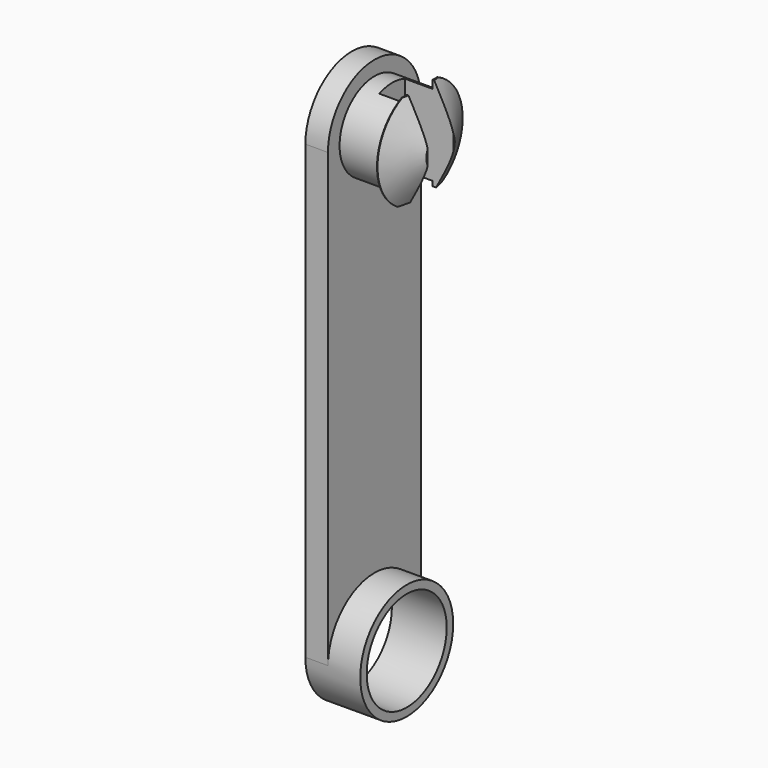
from build123d import *

# Parameters (mm, degrees)
F0_R      = 1.55
F1_DEPTH  = 0.7
F2_R      = 1.35
F3_DEPTH  = 1.4
F4_R      = 1.65
F5_DEPTH  = 0.65
F6_SIZE2  = 0.6350852961
F6_SIZE   = 1.1
F8_DEPTH  = 1.5
F9_R      = 1.8
F9_R_2    = 1.55
F10_DEPTH = 1


with BuildPart() as f1:
    # F0 (on Right) → F1 (new body)
    with BuildSketch(Plane.YZ):
        with BuildLine():
            Line((1.8, -7), (1.8, 7))
            ThreePointArc((1.8, 7), (0, 8.8), (-1.8, 7))
            Line((-1.8, 7), (-1.8, -7))
            ThreePointArc((-1.8, -7), (0, -8.8), (1.8, -7))
        make_face()
        with Locations((0, -7)):
            Circle(F0_R, mode=Mode.SUBTRACT)
    extrude(amount=F1_DEPTH)

    # F2 (on face) → F3 (join)
    with BuildSketch(Plane.YZ.offset(0.7)):
        with Locations((0, 7)):
            Circle(F2_R)
    extrude(amount=F3_DEPTH)

    # F4 (on face) → F5 (join)
    with BuildSketch(Plane.YZ.offset(2.1)):
        with Locations((0, 7)):
            Circle(F4_R)
    extrude(amount=F5_DEPTH)

    # F6
    f6_edges = [f1.edges().sort_by_distance(p)[0] for p in [
        (2.75, -1.65, 7),
    ]]
    f6_side = f1.faces().sort_by_distance((2.75, 0, 7))[0]
    chamfer(f6_edges, length=F6_SIZE, length2=F6_SIZE2, reference=f6_side)

    # F7 (on face) → F8 (cut)
    with BuildSketch(Plane.YZ.offset(2.75)):
        with BuildLine():
            Line((0.5, 8.8), (-0.5, 8.8))
            Line((-0.5, 8.8), (-1, 8.8))
            Line((-1, 8.8), (-1, 8.5))
            Line((-1, 8.5), (-0.5, 8.5))
            Line((-0.5, 8.5), (-0.5, 7.2291287847))
            ThreePointArc((-0.5, 7.2291287847), (0, 7.55), (0.5, 7.2291287847))
            Line((0.5, 7.2291287847), (0.5, 8.5))
            Line((0.5, 8.5), (1, 8.5))
            Line((1, 8.5), (1, 8.8))
            Line((1, 8.8), (0.5, 8.8))
        make_face()
        with BuildLine():
            ThreePointArc((0.5, 7.2291287847), (0, 7.55), (-0.5, 7.2291287847))
            Line((-0.5, 7.2291287847), (-0.5, 6.7708712153))
            ThreePointArc((-0.5, 6.7708712153), (0, 6.45), (0.5, 6.7708712153))
            Line((0.5, 6.7708712153), (0.5, 7.2291287847))
        make_face()
        with BuildLine():
            ThreePointArc((0.5, 6.7708712153), (0, 6.45), (-0.5, 6.7708712153))
            Line((-0.5, 6.7708712153), (-0.5, 5.6))
            Line((-0.5, 5.6), (-1, 5.6))
            Line((-1, 5.6), (-1, 5.3))
            Line((-1, 5.3), (-0.5, 5.3))
            Line((-0.5, 5.3), (0.5, 5.3))
            Line((0.5, 5.3), (1, 5.3))
            Line((1, 5.3), (1, 5.6))
            Line((1, 5.6), (0.5, 5.6))
            Line((0.5, 5.6), (0.5, 6.7708712153))
        make_face()
    extrude(amount=-F8_DEPTH, mode=Mode.SUBTRACT)

    # F9 (on face) → F10 (join)
    with BuildSketch(Plane.YZ.offset(0.7)):
        with Locations((0, -7)):
            Circle(F9_R)
        with Locations((0, -7)):
            Circle(F9_R_2, mode=Mode.SUBTRACT)
    extrude(amount=F10_DEPTH)


solid = f1.part
